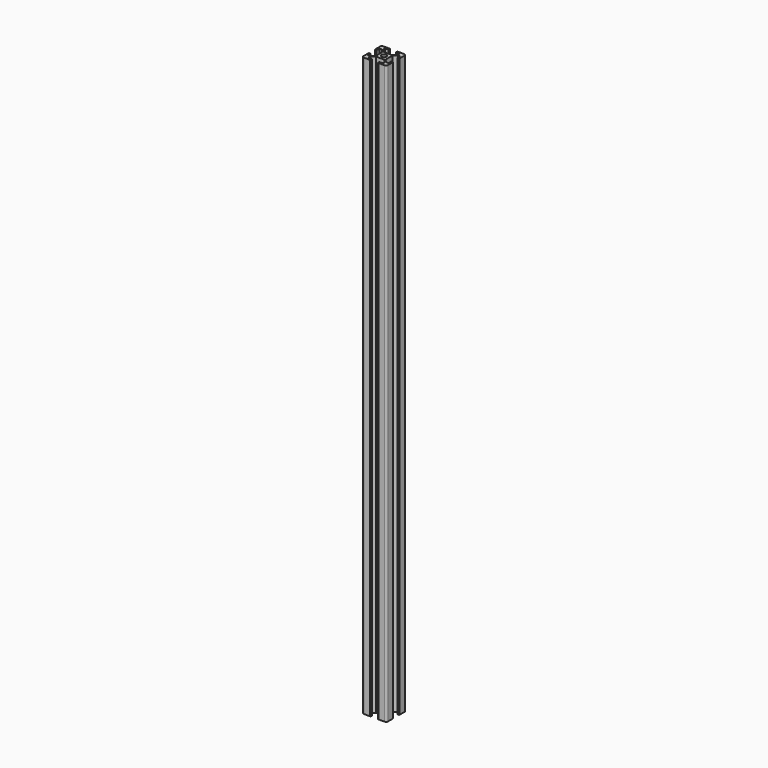
from build123d import *

# Parameters (mm, degrees)
F0_R     = 2
F1_DEPTH = 190
F2_DEPTH = 471.5


with BuildPart() as f1:
    # F0 (on Top) → F1 (new body)
    with BuildSketch(Plane.XY):
        with BuildLine():
            Line((8.455436, 3), (9.5, 3))
            ThreePointArc((9.5, 3), (9.853553, 3.146447), (10, 3.5))
            Line((10, 3.5), (10, 8.5))
            ThreePointArc((10, 8.5), (9.56066, 9.56066), (8.5, 10))
            Line((8.5, 10), (3.5, 10))
            ThreePointArc((3.5, 10), (3.146447, 9.853553), (3, 9.5))
            Line((3, 9.5), (3, 8.455436))
            Line((3, 8.455436), (6, 8.455436))
            Line((6, 8.455436), (6, 6.512804))
            Line((6, 6.512804), (3.487196, 4))
            Line((3.487196, 4), (0, 4))
            Line((0, 4), (-3.487196, 4))
            Line((-3.487196, 4), (-6, 6.512804))
            Line((-6, 6.512804), (-6, 8.455436))
            Line((-6, 8.455436), (-3, 8.455436))
            Line((-3, 8.455436), (-3, 9.5))
            ThreePointArc((-3, 9.5), (-3.146447, 9.853553), (-3.5, 10))
            Line((-3.5, 10), (-8.5, 10))
            ThreePointArc((-8.5, 10), (-9.56066, 9.56066), (-10, 8.5))
            Line((-10, 8.5), (-10, 3.5))
            ThreePointArc((-10, 3.5), (-9.853553, 3.146447), (-9.5, 3))
            Line((-9.5, 3), (-8.455436, 3))
            Line((-8.455436, 3), (-8.455436, 6))
            Line((-8.455436, 6), (-6.512804, 6))
            Line((-6.512804, 6), (-4, 3.487196))
            Line((-4, 3.487196), (-4, 0))
            Line((-4, 0), (-4, -3.487196))
            Line((-4, -3.487196), (-6.512804, -6))
            Line((-6.512804, -6), (-8.455436, -6))
            Line((-8.455436, -6), (-8.455436, -3))
            Line((-8.455436, -3), (-9.5, -3))
            ThreePointArc((-9.5, -3), (-9.853553, -3.146447), (-10, -3.5))
            Line((-10, -3.5), (-10, -8.5))
            ThreePointArc((-10, -8.5), (-9.56066, -9.56066), (-8.5, -10))
            Line((-8.5, -10), (-3.5, -10))
            ThreePointArc((-3.5, -10), (-3.146447, -9.853553), (-3, -9.5))
            Line((-3, -9.5), (-3, -8.455436))
            Line((-3, -8.455436), (-6, -8.455436))
            Line((-6, -8.455436), (-6, -6.512804))
            Line((-6, -6.512804), (-3.487196, -4))
            Line((-3.487196, -4), (0, -4))
            Line((0, -4), (3.487196, -4))
            Line((3.487196, -4), (6, -6.512804))
            Line((6, -6.512804), (6, -8.455436))
            Line((6, -8.455436), (3, -8.455436))
            Line((3, -8.455436), (3, -9.5))
            ThreePointArc((3, -9.5), (3.146447, -9.853553), (3.5, -10))
            Line((3.5, -10), (8.5, -10))
            ThreePointArc((8.5, -10), (9.56066, -9.56066), (10, -8.5))
            Line((10, -8.5), (10, -3.5))
            ThreePointArc((10, -3.5), (9.853553, -3.146447), (9.5, -3))
            Line((9.5, -3), (8.455436, -3))
            Line((8.455436, -3), (8.455436, -6))
            Line((8.455436, -6), (6.512804, -6))
            Line((6.512804, -6), (4, -3.487196))
            Line((4, -3.487196), (4, 0))
            Line((4, 0), (4, 3.487196))
            Line((4, 3.487196), (6.512804, 6))
            Line((6.512804, 6), (8.455436, 6))
            Line((8.455436, 6), (8.455436, 3))
        make_face()
        Circle(F0_R, mode=Mode.SUBTRACT)
    extrude(amount=F1_DEPTH)


with BuildPart() as f2:
    # F0 (on Top) → F2 (new body)
    with BuildSketch(Plane.XY):
        with BuildLine():
            Line((8.455436, 3), (9.5, 3))
            ThreePointArc((9.5, 3), (9.853553, 3.146447), (10, 3.5))
            Line((10, 3.5), (10, 8.5))
            ThreePointArc((10, 8.5), (9.56066, 9.56066), (8.5, 10))
            Line((8.5, 10), (3.5, 10))
            ThreePointArc((3.5, 10), (3.146447, 9.853553), (3, 9.5))
            Line((3, 9.5), (3, 8.455436))
            Line((3, 8.455436), (6, 8.455436))
            Line((6, 8.455436), (6, 6.512804))
            Line((6, 6.512804), (3.487196, 4))
            Line((3.487196, 4), (0, 4))
            Line((0, 4), (-3.487196, 4))
            Line((-3.487196, 4), (-6, 6.512804))
            Line((-6, 6.512804), (-6, 8.455436))
            Line((-6, 8.455436), (-3, 8.455436))
            Line((-3, 8.455436), (-3, 9.5))
            ThreePointArc((-3, 9.5), (-3.146447, 9.853553), (-3.5, 10))
            Line((-3.5, 10), (-8.5, 10))
            ThreePointArc((-8.5, 10), (-9.56066, 9.56066), (-10, 8.5))
            Line((-10, 8.5), (-10, 3.5))
            ThreePointArc((-10, 3.5), (-9.853553, 3.146447), (-9.5, 3))
            Line((-9.5, 3), (-8.455436, 3))
            Line((-8.455436, 3), (-8.455436, 6))
            Line((-8.455436, 6), (-6.512804, 6))
            Line((-6.512804, 6), (-4, 3.487196))
            Line((-4, 3.487196), (-4, 0))
            Line((-4, 0), (-4, -3.487196))
            Line((-4, -3.487196), (-6.512804, -6))
            Line((-6.512804, -6), (-8.455436, -6))
            Line((-8.455436, -6), (-8.455436, -3))
            Line((-8.455436, -3), (-9.5, -3))
            ThreePointArc((-9.5, -3), (-9.853553, -3.146447), (-10, -3.5))
            Line((-10, -3.5), (-10, -8.5))
            ThreePointArc((-10, -8.5), (-9.56066, -9.56066), (-8.5, -10))
            Line((-8.5, -10), (-3.5, -10))
            ThreePointArc((-3.5, -10), (-3.146447, -9.853553), (-3, -9.5))
            Line((-3, -9.5), (-3, -8.455436))
            Line((-3, -8.455436), (-6, -8.455436))
            Line((-6, -8.455436), (-6, -6.512804))
            Line((-6, -6.512804), (-3.487196, -4))
            Line((-3.487196, -4), (0, -4))
            Line((0, -4), (3.487196, -4))
            Line((3.487196, -4), (6, -6.512804))
            Line((6, -6.512804), (6, -8.455436))
            Line((6, -8.455436), (3, -8.455436))
            Line((3, -8.455436), (3, -9.5))
            ThreePointArc((3, -9.5), (3.146447, -9.853553), (3.5, -10))
            Line((3.5, -10), (8.5, -10))
            ThreePointArc((8.5, -10), (9.56066, -9.56066), (10, -8.5))
            Line((10, -8.5), (10, -3.5))
            ThreePointArc((10, -3.5), (9.853553, -3.146447), (9.5, -3))
            Line((9.5, -3), (8.455436, -3))
            Line((8.455436, -3), (8.455436, -6))
            Line((8.455436, -6), (6.512804, -6))
            Line((6.512804, -6), (4, -3.487196))
            Line((4, -3.487196), (4, 0))
            Line((4, 0), (4, 3.487196))
            Line((4, 3.487196), (6.512804, 6))
            Line((6.512804, 6), (8.455436, 6))
            Line((8.455436, 6), (8.455436, 3))
        make_face()
        Circle(F0_R, mode=Mode.SUBTRACT)
    extrude(amount=F2_DEPTH)


solid = Compound([f1.part, f2.part])
